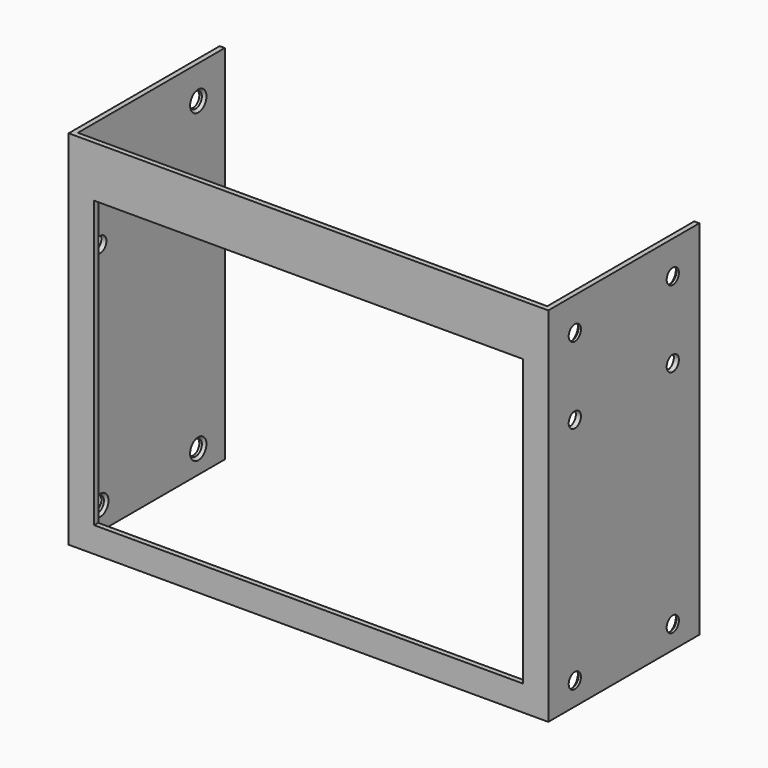
from build123d import *

# Parameters (mm, degrees)
F0_W     = 94
F0_H     = 71
F0_W_2   = 84
F0_H_2   = 56
F1_DEPTH = 1
F2_W     = 1
F2_H     = 71
F3_DEPTH = 36
F4_R     = 1.5
F5_DEPTH = 100
F6_SIZE  = 0.5
F7_SIZE  = 0.5


with BuildPart() as f1:
    # F0 (on Front) → F1 (new body)
    with BuildSketch(Plane.XZ):
        Rectangle(F0_W, F0_H)
        with Locations((0, -2.5)):
            Rectangle(F0_W_2, F0_H_2, mode=Mode.SUBTRACT)
    extrude(amount=F1_DEPTH)

    # F2 (on face) → F3 (join)
    with BuildSketch(Plane(origin=(0, 0, 0), x_dir=(-1, 0, 0), z_dir=(0, 1, 0))):
        with Locations((-46.5, 0)):
            Rectangle(F2_W, F2_H)
        with Locations((46.5, 0)):
            Rectangle(F2_W, F2_H)
    extrude(amount=F3_DEPTH)

    # F4 (on face) → F5 (cut)
    with BuildSketch(Plane(origin=(-47, 0, 0), x_dir=(0, -1, 0), z_dir=(-1, 0, 0))):
        with Locations((-29.5, -31)):
            Circle(F4_R)
        with Locations((-5.5, -31)):
            Circle(F4_R)
        with Locations((-29.5, 29)):
            Circle(F4_R)
        with Locations((-5.5, 29)):
            Circle(F4_R)
        with Locations((-29.5, 14)):
            Circle(F4_R)
        with Locations((-5.5, 14)):
            Circle(F4_R)
    extrude(amount=-F5_DEPTH, mode=Mode.SUBTRACT)

    # F6
    f6_edges = [f1.edges().sort_by_distance(p)[0] for p in [
        (-46, 31, -31),
        (-46, 7, -31),
        (46, 7, -31),
        (46, 31, -31),
    ]]
    chamfer(f6_edges, length=F6_SIZE)

    # F7
    f7_edges = [f1.edges().sort_by_distance(p)[0] for p in [
        (46, 31, 29),
        (46, 7, 29),
        (-46, 7, 29),
        (-46, 31, 29),
    ]]
    chamfer(f7_edges, length=F7_SIZE)


solid = f1.part
